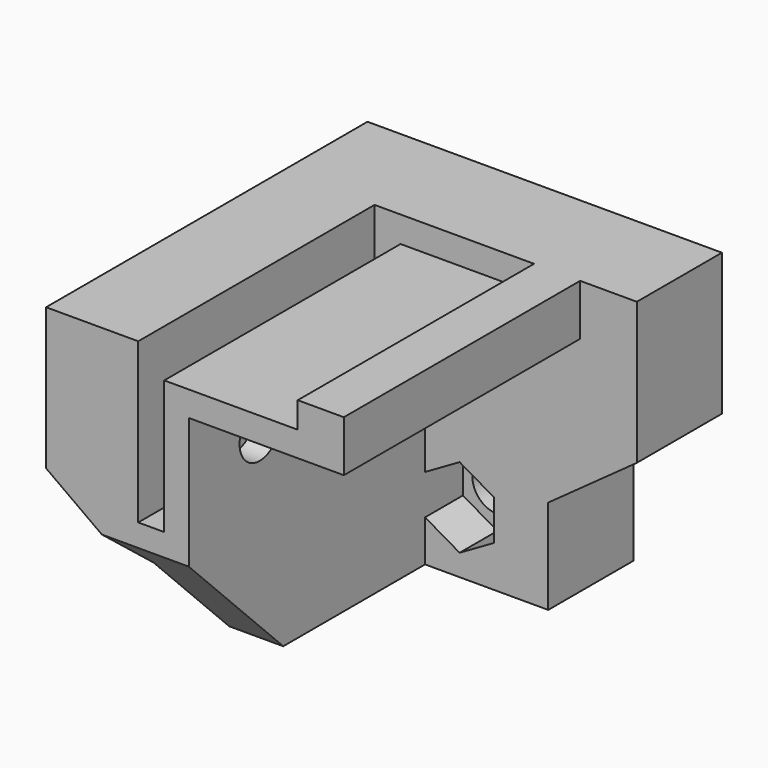
from build123d import *

# Parameters (mm, degrees)
F0_R     = 2.125
F1_DEPTH = 5
F3_DEPTH = 4
F5_DEPTH = 25
F6_R     = 2.125
F7_DEPTH = 25
F9_DEPTH = 4
F10_SIZE = 10


with BuildPart() as f1:
    # F0 (on Front) → F1 (new body)
    with BuildSketch(Plane.XZ):
        Polygon((-7.5, -12.7), (7.5, -12.7), (7.5, -4.7), (15, 0.7), (15, 12.7), (-15, 12.7), (-15, 0.7), (-7.5, -4.7), align=None)
        with Locations((0, -7.5)):
            Circle(F0_R, mode=Mode.SUBTRACT)
        with Locations((0, 5)):
            Circle(F0_R, mode=Mode.SUBTRACT)
    extrude(amount=F1_DEPTH)

    # F2 (on face) → F3 (join)
    with BuildSketch(Plane.XZ.offset(5)):
        Polygon((15, 12.7), (-15, 12.7), (-15, 0.7), (-7.5, -4.7), (-7.5, -12.7), (7.5, -12.7), (7.5, -4.7), (15, 0.7), align=None)
        Polygon((0, -4.122501), (2.925, -5.81125), (2.925, -9.18875), (0, -10.877499), (-2.925, -9.18875), (-2.925, -5.81125), align=None, mode=Mode.SUBTRACT)
        Polygon((0, 8.377499), (2.925, 6.68875), (2.925, 3.31125), (0, 1.622501), (-2.925, 3.31125), (-2.925, 6.68875), align=None, mode=Mode.SUBTRACT)
    extrude(amount=F3_DEPTH)

    # F4 (on face) → F5 (join)
    with BuildSketch(Plane.XZ.offset(9)):
        Polygon((-7.2, -0.8), (-7.2, 12.7), (-15, 12.7), (-15, 0.7), (-7.5, -4.7), (-7.5, -12.7), (-2.925, -12.7), (-2.925, 3.31125), (-2.925, 6.68875), (-2.925, 8.377499), (10.2, 8.377499), (10.2, 12.7), (6.3, 12.7), (6.3, 10.5), (-5, 10.5), (-5, -0.8), align=None)
    extrude(amount=F5_DEPTH)

    # F6 (on face) → F7 (cut)
    with BuildSketch(Plane.YZ.offset(-2.925)):
        with Locations((-26.5, 4.25)):
            Circle(F6_R)
        with Locations((-14, 4.25)):
            Circle(F6_R)
    extrude(amount=-F7_DEPTH, mode=Mode.SUBTRACT)

    # F8 (on face) → F9 (cut)
    with BuildSketch(Plane(origin=(-15, 0, 0), x_dir=(0, -1, 0), z_dir=(-1, 0, 0))):
        Polygon((15.68875, 7.175), (12.31125, 7.175), (10.622501, 4.25), (12.31125, 1.325), (15.68875, 1.325), (17.377499, 4.25), align=None)
        Polygon((28.18875, 7.175), (24.81125, 7.175), (23.122501, 4.25), (24.81125, 1.325), (28.18875, 1.325), (29.877499, 4.25), align=None)
    extrude(amount=-F9_DEPTH, mode=Mode.SUBTRACT)

    # F10
    f10_edges = [f1.edges().sort_by_distance(p)[0] for p in [
        (-5.2125, -34, -12.7),
    ]]
    chamfer(f10_edges, length=F10_SIZE)


solid = f1.part
